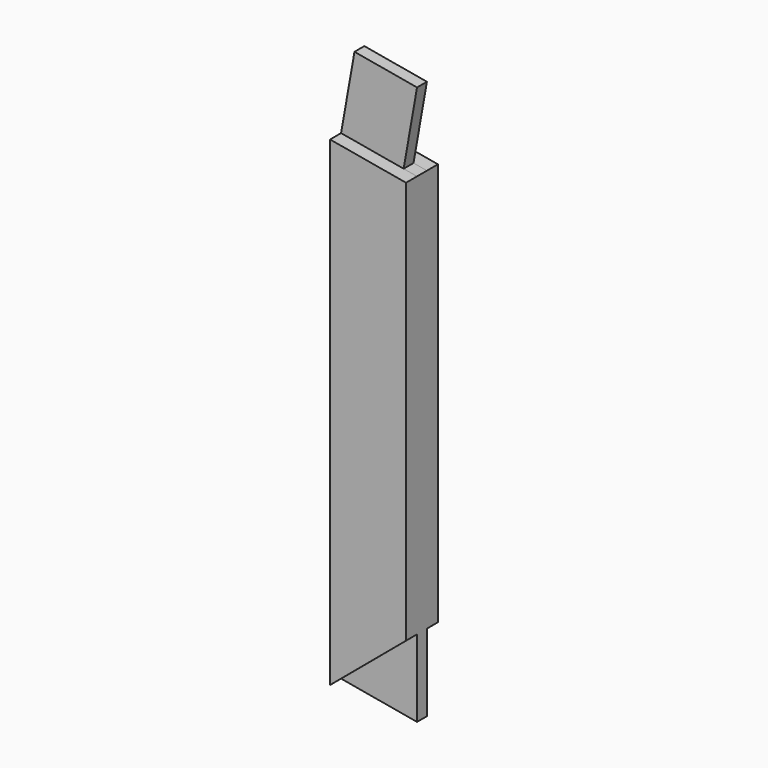
from build123d import *

# Parameters (mm, degrees)
F0_W      = 80
F0_H      = 600
F1_DEPTH  = 42
F2_W      = 80
F2_H      = 80
F3_DEPTH  = 14.5
F4_W      = 80
F4_H      = 80
F5_DEPTH  = 14.5
F7_DEPTH  = 14.5
F9_DEPTH  = 14.5
F11_DEPTH = 27.501
F13_DEPTH = 42.001
F15_DEPTH = 14.5
F17_DEPTH = 14.5


with BuildPart() as f1:
    # F0 (on Front) → F1 (new body)
    with BuildSketch(Plane.XZ):
        Rectangle(F0_W, F0_H)
    extrude(amount=F1_DEPTH)

    # F2 (on face) → F3 (cut)
    with BuildSketch(Plane.XZ.offset(42)):
        with Locations((0, 260)):
            Rectangle(F2_W, F2_H)
    extrude(amount=-F3_DEPTH, mode=Mode.SUBTRACT)

    # F4 (on face) → F5 (cut)
    with BuildSketch(Plane(origin=(0, 0, 0), x_dir=(-1, 0, 0), z_dir=(0, 1, 0))):
        with Locations((0, 260)):
            Rectangle(F4_W, F4_H)
    extrude(amount=-F5_DEPTH, mode=Mode.SUBTRACT)

    # F6 (on face) → F7 (cut, through all)
    with BuildSketch(Plane.XZ.offset(42)):
        Polygon((40, 220), (-40, 220), (40, 205.8938415433), align=None)
    extrude(amount=-F7_DEPTH, mode=Mode.SUBTRACT)

    # F8 (on face) → F9 (cut, through all)
    with BuildSketch(Plane(origin=(0, 0, 0), x_dir=(-1, 0, 0), z_dir=(0, 1, 0))):
        Polygon((-40, 205.8938415433), (40, 220), (-40, 220), align=None)
    extrude(amount=-F9_DEPTH, mode=Mode.SUBTRACT)

    # F10 (on face) → F11 (cut, through all)
    with BuildSketch(Plane.XZ.offset(27.5)):
        Polygon((-40, 300), (-40, 220), (-25.8938415433, 300), align=None)
        Polygon((40, 300), (-25.8938415433, 300), (40, 288.3811378734), align=None)
        Polygon((40, 288.3811378734), (25.8938415433, 208.3811378734), (40, 205.8938415433), align=None)
    extrude(amount=-F11_DEPTH, mode=Mode.SUBTRACT)

    # F12 (on face) → F13 (cut, through all)
    with BuildSketch(Plane.XZ.offset(42)):
        Polygon((-40, -300), (40, -300), (-40, -285.8938415433), align=None)
    extrude(amount=-F13_DEPTH, mode=Mode.SUBTRACT)

    # F14 (on face) → F15 (cut)
    with BuildSketch(Plane.XZ.offset(42)):
        Polygon((-40, -285.8938415433), (40, -300), (40, -218.7658710491), align=None)
    extrude(amount=-F15_DEPTH, mode=Mode.SUBTRACT)

    # F16 (on face) → F17 (cut)
    with BuildSketch(Plane(origin=(0, 0, 0), x_dir=(-1, 0, 0), z_dir=(0, 1, 0))):
        Polygon((-40, -218.7658710491), (-40, -300), (40, -285.8938415433), align=None)
    extrude(amount=-F17_DEPTH, mode=Mode.SUBTRACT)


solid = f1.part
